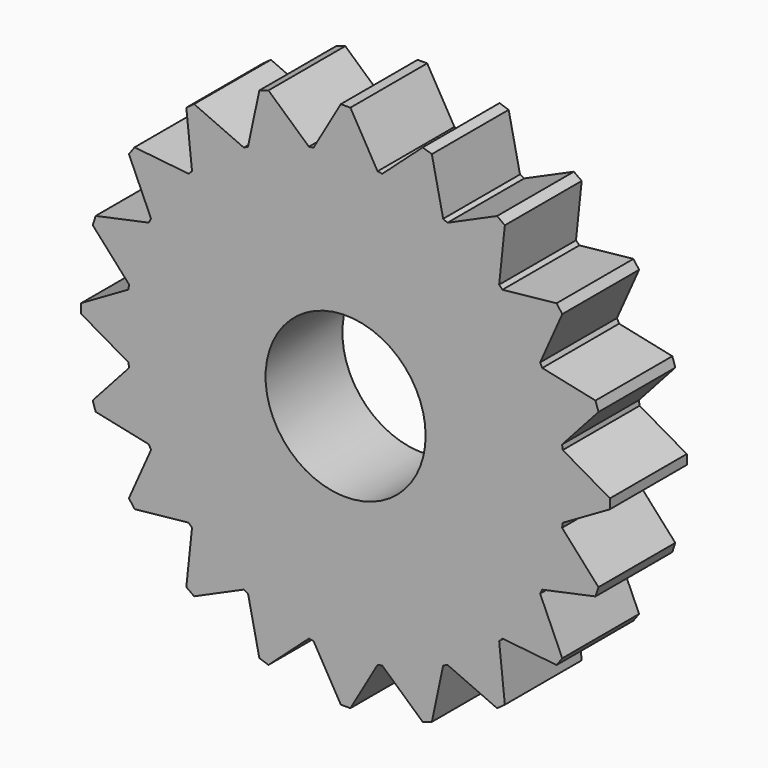
from build123d import *

# Parameters (mm, degrees)
F0_R     = 17.421619
F1_DEPTH = 7.62
F3_DEPTH = 7.62
F4_SIZE  = 0.762
F5_R     = 6.35
F6_DEPTH = 25.4


with BuildPart() as f1:
    # F0 (on Front) → F1 (new body)
    with BuildSketch(Plane.XZ):
        Circle(F0_R)
    extrude(amount=F1_DEPTH)

    # F2 (on face) → F3 (join, through all)
    with BuildSketch(Plane(origin=(0, 0, 0), x_dir=(-1, 0, 0), z_dir=(0, 1, 0))):
        Polygon((-17.235463, -2.54), (-17.235463, 2.54), (-21.634872, 0), align=None)
        Polygon((-20.575986, -6.685543), (-15.606996, -7.741735), (-17.176803, -2.910368), align=None)
        Polygon((-17.502979, -12.716659), (-12.450808, -12.185654), (-15.436757, -8.075848), align=None)
        Polygon((-12.716659, -17.502979), (-8.075848, -15.436757), (-12.185654, -12.450808), align=None)
        Polygon((-6.685543, -20.575986), (-2.910368, -17.176803), (-7.741735, -15.606996), align=None)
        Polygon((0, -21.634872), (2.54, -17.235463), (-2.54, -17.235463), align=None)
        Polygon((6.685543, -20.575986), (7.741735, -15.606996), (2.910368, -17.176803), align=None)
        Polygon((12.716659, -17.502979), (12.185654, -12.450808), (8.075848, -15.436757), align=None)
        Polygon((17.502979, -12.716659), (15.436757, -8.075848), (12.450808, -12.185654), align=None)
        Polygon((20.575986, -6.685543), (17.176803, -2.910368), (15.606996, -7.741735), align=None)
        Polygon((21.634872, 0), (17.235463, 2.54), (17.235463, -2.54), align=None)
        Polygon((20.575986, 6.685543), (15.606996, 7.741735), (17.176803, 2.910368), align=None)
        Polygon((17.502979, 12.716659), (12.450808, 12.185654), (15.436757, 8.075848), align=None)
        Polygon((12.716659, 17.502979), (8.075848, 15.436757), (12.185654, 12.450808), align=None)
        Polygon((6.685543, 20.575986), (2.910368, 17.176803), (7.741735, 15.606996), align=None)
        Polygon((0, 21.634872), (-2.54, 17.235463), (2.54, 17.235463), align=None)
        Polygon((-6.685543, 20.575986), (-7.741735, 15.606996), (-2.910368, 17.176803), align=None)
        Polygon((-12.716659, 17.502979), (-12.185654, 12.450808), (-8.075848, 15.436757), align=None)
        Polygon((-17.502979, 12.716659), (-15.436757, 8.075848), (-12.450808, 12.185654), align=None)
        Polygon((-20.575986, 6.685543), (-17.176803, 2.910368), (-15.606996, 7.741735), align=None)
    extrude(amount=-F3_DEPTH)

    # F4
    f4_edges = [f1.edges().sort_by_distance(p)[0] for p in [
        (-6.685543, -3.81, 20.575986),
        (0, -3.81, 21.634872),
        (6.685543, -3.81, 20.575986),
        (12.716659, -3.81, 17.502979),
        (17.502979, -3.81, 12.716659),
        (20.575986, -3.81, 6.685543),
        (21.634872, -3.81, 0),
        (20.575986, -3.81, -6.685543),
        (-12.716659, -3.81, 17.502979),
        (-17.502979, -3.81, 12.716659),
        (-20.575986, -3.81, 6.685543),
        (-21.634872, -3.81, 0),
        (-20.575986, -3.81, -6.685543),
        (-17.502979, -3.81, -12.716659),
        (-12.716659, -3.81, -17.502979),
        (17.502979, -3.81, -12.716659),
        (-6.685543, -3.81, -20.575986),
        (0, -3.81, -21.634872),
        (6.685543, -3.81, -20.575986),
        (12.716659, -3.81, -17.502979),
    ]]
    chamfer(f4_edges, length=F4_SIZE)

    # F5 (on face) → F6 (cut)
    with BuildSketch(Plane.XZ.offset(7.62)):
        Circle(F5_R)
    extrude(amount=-F6_DEPTH, mode=Mode.SUBTRACT)


solid = f1.part
